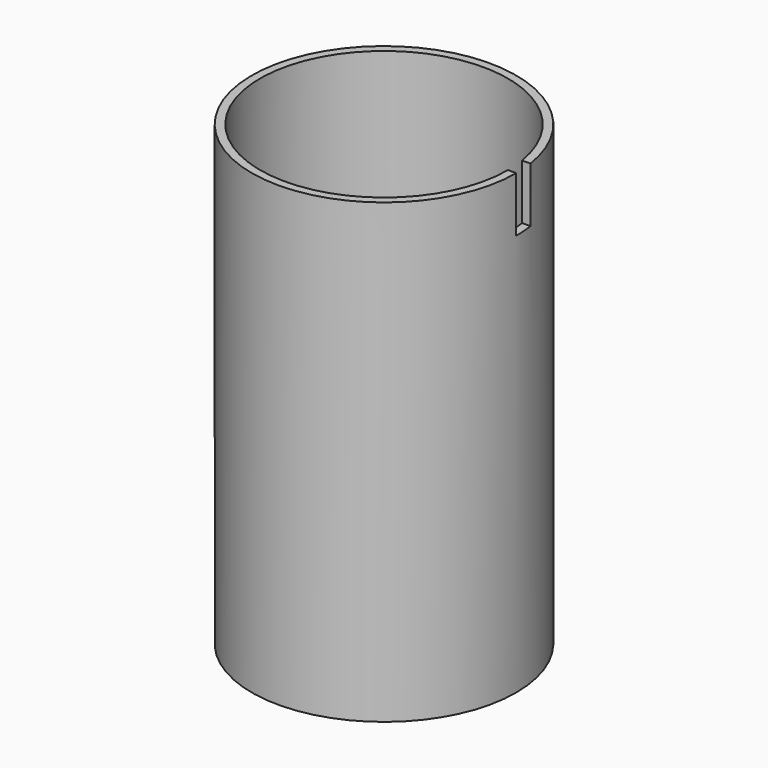
from build123d import *

# Parameters (mm, degrees)
F0_R     = 24
F1_DEPTH = 3
F2_R     = 24
F2_R_2   = 22.5
F3_DEPTH = 80
F4_W     = 13
F4_H     = 13
F4_R     = 4.75
F5_DEPTH = 3.001
F6_W     = 3.55
F6_H     = 10
F7_DEPTH = 25


with BuildPart() as f1:
    # F0 (on Top) → F1 (new body)
    with BuildSketch(Plane.XY):
        Circle(F0_R)
    extrude(amount=F1_DEPTH)

    # F2 (on face) → F3 (join)
    with BuildSketch(Plane.XY.offset(3)):
        Circle(F2_R)
        Circle(F2_R_2, mode=Mode.SUBTRACT)
    extrude(amount=F3_DEPTH)

    # F4 (on face) → F5 (cut, through all)
    with BuildSketch(Plane.XY.offset(3)):
        with Locations((-9.5, 0)):
            Rectangle(F4_W, F4_H)
        with Locations((9, 0)):
            Circle(F4_R)
    extrude(amount=-F5_DEPTH, mode=Mode.SUBTRACT)

    # F6 (on Right) → F7 (cut)
    with BuildSketch(Plane.YZ):
        with Locations((1.775, 78)):
            Rectangle(F6_W, F6_H)
    extrude(amount=F7_DEPTH, mode=Mode.SUBTRACT)


solid = f1.part
